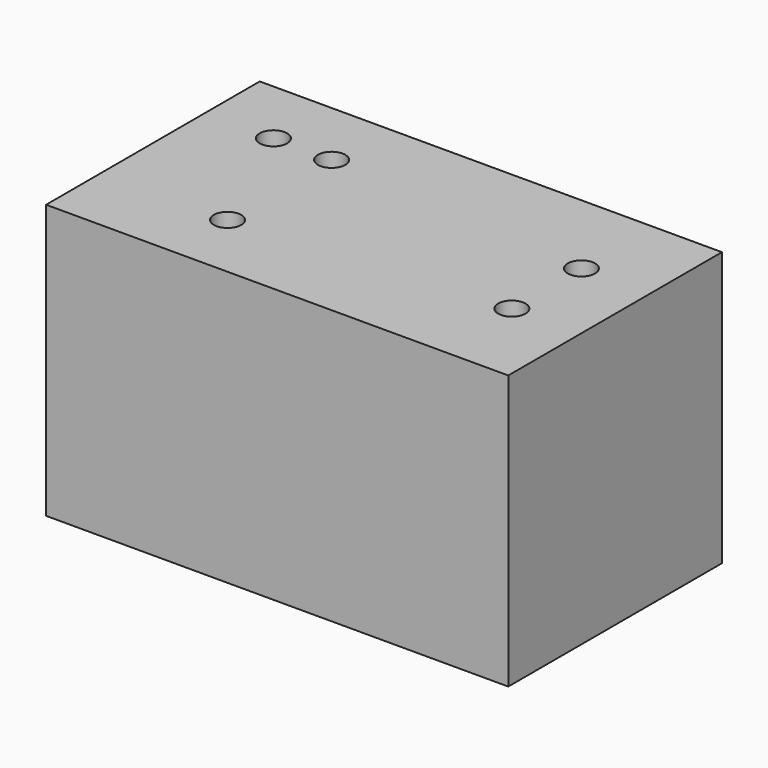
from build123d import *

# Parameters (mm, degrees)
F0_W     = 13.5
F0_H     = 7.8
F0_R     = 0.4
F1_DEPTH = 8


with BuildPart() as f1:
    # F0 (on Top) → F1 (new body)
    with BuildSketch(Plane.XY):
        Rectangle(F0_W, F0_H)
        with Locations((-3.05, -1.9)):
            Circle(F0_R, mode=Mode.SUBTRACT)
        with Locations((4.75, -1.27)):
            Circle(F0_R, mode=Mode.SUBTRACT)
        with Locations((-4.75, 1.9)):
            Circle(F0_R, mode=Mode.SUBTRACT)
        with Locations((-3.05, 1.9)):
            Circle(F0_R, mode=Mode.SUBTRACT)
        with Locations((4.75, 1.27)):
            Circle(F0_R, mode=Mode.SUBTRACT)
    extrude(amount=F1_DEPTH)


solid = f1.part
